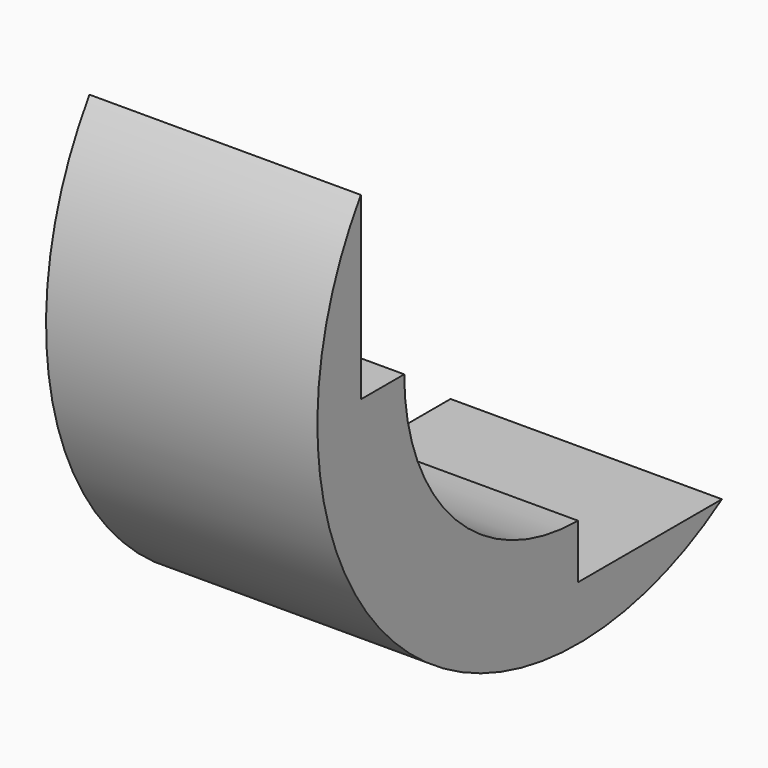
from build123d import *

# Parameters (mm, degrees)
BOX010_W      = 5
BOX010_H      = 10
BOX010_DEPTH  = 8
BOX009_W      = 5
BOX009_H      = 8
BOX009_DEPTH  = 10
TUBE004_R     = 6
TUBE004_R_2   = 4
TUBE004_DEPTH = 5


with BuildPart() as cube010:
    # Box010 → Box010 (new body)
    with BuildSketch(Plane(origin=(0, -2, 3), x_dir=(1, 0, 0), z_dir=(0, 0, 1))):
        with Locations((2.5, 5)):
            Rectangle(BOX010_W, BOX010_H)
    extrude(amount=BOX010_DEPTH)


with BuildPart() as cube009:
    # Box009 → Box009 (new body)
    with BuildSketch(Plane(origin=(0, 3, -2), x_dir=(1, 0, 0), z_dir=(0, 0, 1))):
        with Locations((2.5, 4)):
            Rectangle(BOX009_W, BOX009_H)
    extrude(amount=BOX009_DEPTH)


with BuildPart() as cut009:
    # Tube004 → Tube004 (new body)
    with BuildSketch(Plane(origin=(0, 3, 3), x_dir=(0, 0, -1), z_dir=(1, 0, 0))):
        Circle(TUBE004_R)
        Circle(TUBE004_R_2, mode=Mode.SUBTRACT)
    extrude(amount=TUBE004_DEPTH)

    # Cut008: cut Cube009
    add(cube009.part, mode=Mode.SUBTRACT)

    # Cut009: cut Cube010
    add(cube010.part, mode=Mode.SUBTRACT)


solid = cut009.part
